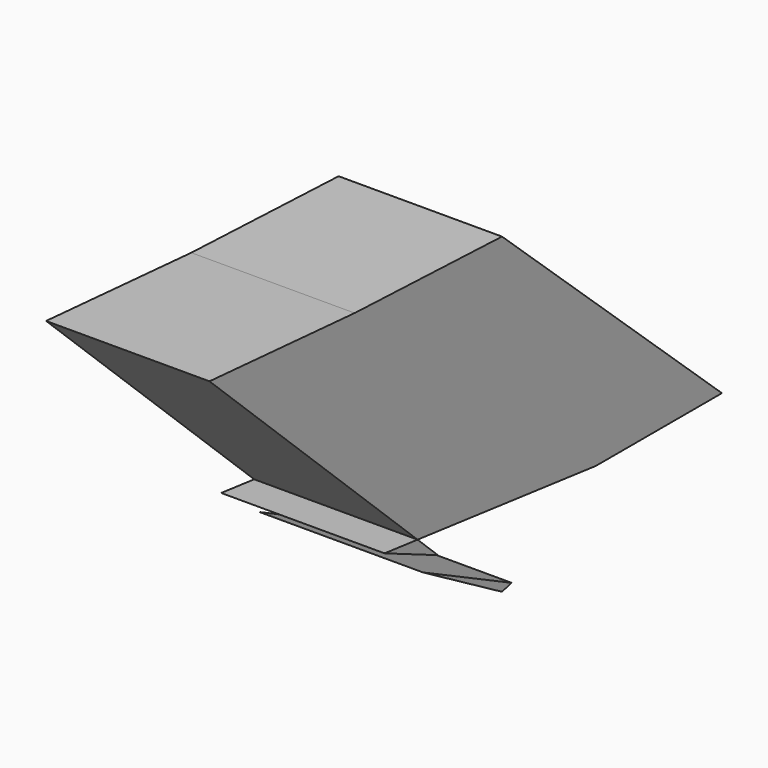
from build123d import *

# Parameters (mm, degrees)
F1_DEPTH = 25.4


with BuildPart() as f1:
    # F0 (on Right) → F1 (new body)
    with BuildSketch(Plane.YZ):
        Polygon((0, 19.611083), (-28.629094, 20.782419), (18.256217, -19.189246), (39.278097, -19.189246), (41.990038, -18.511828), align=None)
        Polygon((0, -29.000551), (1.867502, -28.534066), (-15.351847, -20.111971), align=None)
        Polygon((-12.447439, -18.929109), (-16.40444, -15.199815), (-22.820279, -14.461353), align=None)
        Polygon((18.256217, -19.189246), (-28.629094, 20.782419), (-56.843281, 22.911966), (-16.40444, -15.199815), align=None)
        Polygon((41.990038, -18.511828), (39.278097, -19.189246), (42.736173, -19.189246), align=None)
    extrude(amount=F1_DEPTH)


solid = f1.part
